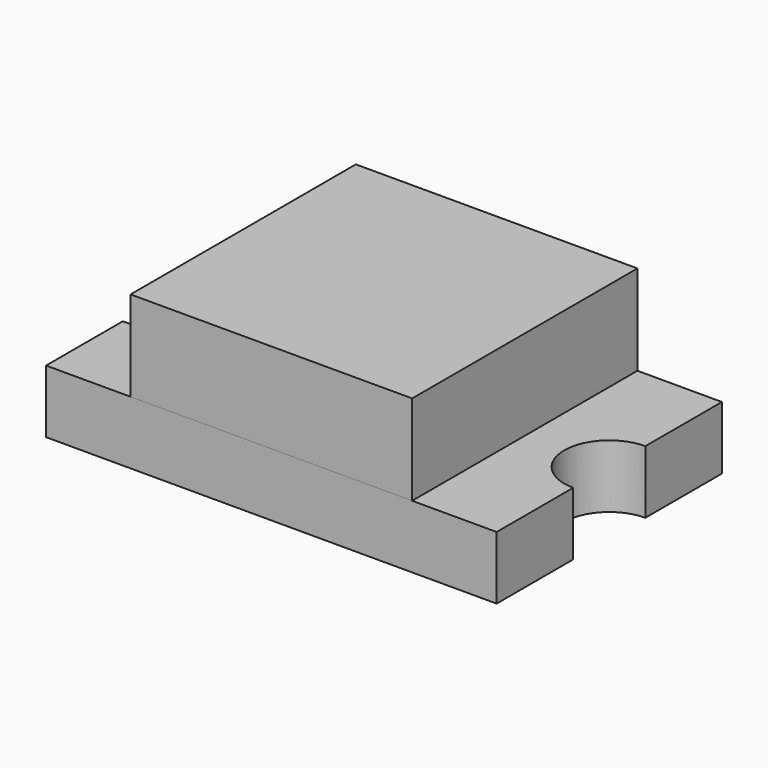
from build123d import *

# Parameters (mm, degrees)
F1_DEPTH = 0.28
F2_W     = 1.25
F2_H     = 1.25
F3_DEPTH = 0.4


with BuildPart() as f1:
    # F0 (on Top) → F1 (new body)
    with BuildSketch(Plane.XY):
        with BuildLine():
            Line((1, 0.625), (0, 0.625))
            Line((0, 0.625), (-1, 0.625))
            Line((-1, 0.625), (-1, 0.2))
            ThreePointArc((-1, 0.2), (-0.858579, 0.141421), (-0.8, 0))
            ThreePointArc((-0.8, 0), (-0.858579, -0.141421), (-1, -0.2))
            Line((-1, -0.2), (-1, -0.625))
            Line((-1, -0.625), (0, -0.625))
            Line((0, -0.625), (1, -0.625))
            Line((1, -0.625), (1, -0.2))
            ThreePointArc((1, -0.2), (0.8, 0), (1, 0.2))
            Line((1, 0.2), (1, 0.625))
        make_face()
    extrude(amount=F1_DEPTH)


with BuildPart() as f3:
    # F2 (on face) → F3 (new body)
    with BuildSketch(Plane.XY.offset(0.28)):
        Rectangle(F2_W, F2_H)
    extrude(amount=F3_DEPTH)


solid = Compound([f1.part, f3.part])
